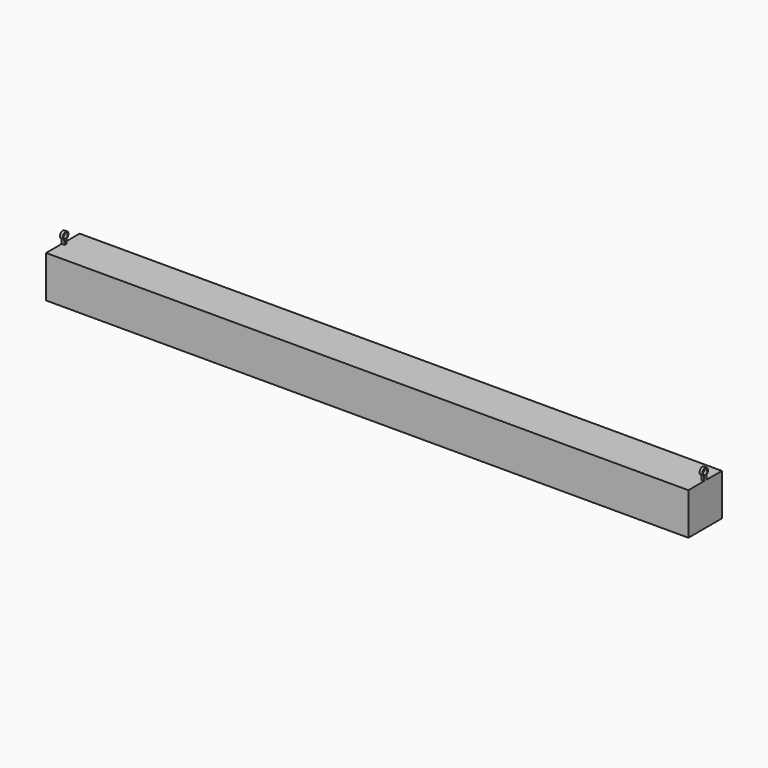
from build123d import *

# Parameters (mm, degrees)
F0_W      = 584.2
F0_H      = 38.1
F1_DEPTH  = 38.1
F2_R      = 2.3539359474
F3_DEPTH  = 2.54
F4_START  = -581.66
F3_FACE_R = 2.3539359474
F4_DEPTH  = 2.54


with BuildPart() as f1:
    # F0 (on Top) → F1 (new body)
    with BuildSketch(Plane.XY):
        Rectangle(F0_W, F0_H)
    extrude(amount=F1_DEPTH)

    # F3_face (on face) → F4 (join)
    with BuildSketch(Plane(origin=(292.1, 0, 43.0586733638), x_dir=(0, 1, 0), z_dir=(1, 0, 0)).offset(F4_START)):
        with BuildLine():
            Line((-1.27, -0.9059671023), (-1.27, -4.9586733638))
            Line((-1.27, -4.9586733638), (1.27, -4.9586733638))
            Line((1.27, -4.9586733638), (1.27, -0.9059671023))
            ThreePointArc((1.27, -0.9059671023), (0, 5.2218307543), (-1.27, -0.9059671023))
        make_face()
        with Locations((0, 2.0263266362)):
            Circle(F3_FACE_R, mode=Mode.SUBTRACT)
    extrude(amount=-F4_DEPTH)


with BuildPart() as f3:
    # F2 (on face) → F3 (new body)
    with BuildSketch(Plane.YZ.offset(292.1)):
        with BuildLine():
            ThreePointArc((1.27, 42.1527062615), (0, 48.2805041181), (-1.27, 42.1527062615))
            Line((-1.27, 42.1527062615), (-1.27, 38.1))
            Line((-1.27, 38.1), (1.27, 38.1))
            Line((1.27, 38.1), (1.27, 42.1527062615))
        make_face()
        with Locations((0, 45.085)):
            Circle(F2_R, mode=Mode.SUBTRACT)
    extrude(amount=-F3_DEPTH)


solid = Compound([f1.part, f3.part])
